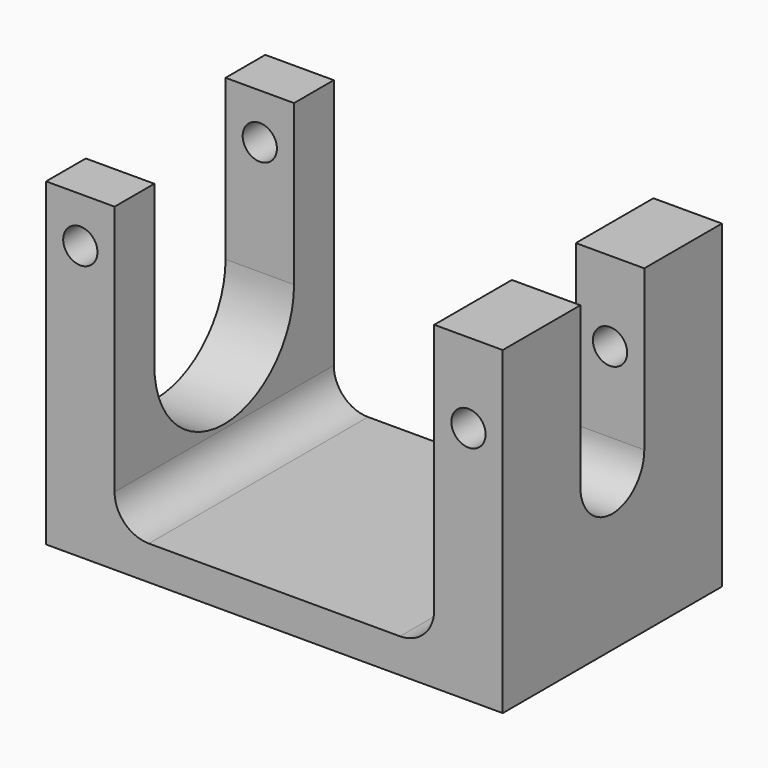
from build123d import *

# Parameters (mm, degrees)
SKETCH_W        = 40
SKETCH_H        = 24
PAD_DEPTH       = 3
SKETCH001_W     = 6
SKETCH001_H     = 24
PAD001_DEPTH    = 25
POCKET_DEPTH    = 6
POCKET001_DEPTH = 6
SKETCH005_R     = 1.5
POCKET002_DEPTH = 24.001
FILLET_R        = 3


with BuildPart() as part:
    # Sketch → Pad (new body)
    with BuildSketch(Plane.XY):
        Rectangle(SKETCH_W, SKETCH_H)
    extrude(amount=PAD_DEPTH)

    # Sketch001 (on Face6 of Pad) → Pad001 (join)
    with BuildSketch(Plane.XY.offset(3)):
        with Locations((-17, 0)):
            Rectangle(SKETCH001_W, SKETCH001_H)
        with Locations((17, 0)):
            Rectangle(SKETCH001_W, SKETCH001_H)
    extrude(amount=PAD001_DEPTH)

    # Sketch002 (on Face9 of Pad001) → Pocket (cut)
    with BuildSketch(Plane.YZ.offset(20)):
        with BuildLine():
            Line((-3.5, 28), (3.5, 28))
            Line((3.5, 28), (3.5, 13.999995))
            ThreePointArc((-3.5, 13.999984), (5e-06, 10.5), (3.5, 13.999995))
            Line((-3.5, 13.999984), (-3.5, 28))
        make_face()
    extrude(amount=-POCKET_DEPTH, mode=Mode.SUBTRACT)

    # Sketch004 (on Face12 of Pocket) → Pocket001 (cut)
    with BuildSketch(Plane(origin=(-20, 0, 0), x_dir=(0, -1, 0), z_dir=(-1, 0, 0))):
        with BuildLine():
            Line((-7.65, 28), (7.65, 28))
            Line((7.65, 28), (7.65, 14))
            ThreePointArc((-7.65, 14), (0, 6.35), (7.65, 14))
            Line((-7.65, 14), (-7.65, 28))
        make_face()
    extrude(amount=-POCKET001_DEPTH, mode=Mode.SUBTRACT)

    # Sketch005 (on Face10 of Pocket001) → Pocket002 (cut, through all)
    with BuildSketch(Plane.XZ.offset(12)):
        with Locations((17, 21)):
            Circle(SKETCH005_R)
        with Locations((-17, 24)):
            Circle(SKETCH005_R)
    extrude(amount=-POCKET002_DEPTH, mode=Mode.SUBTRACT)

    # Fillet
    fillet_edges = [part.edges().sort_by_distance(p)[0] for p in [
        (-14, 0, 3),
        (14, 0, 3),
    ]]
    fillet(fillet_edges, radius=FILLET_R)


solid = part.part
